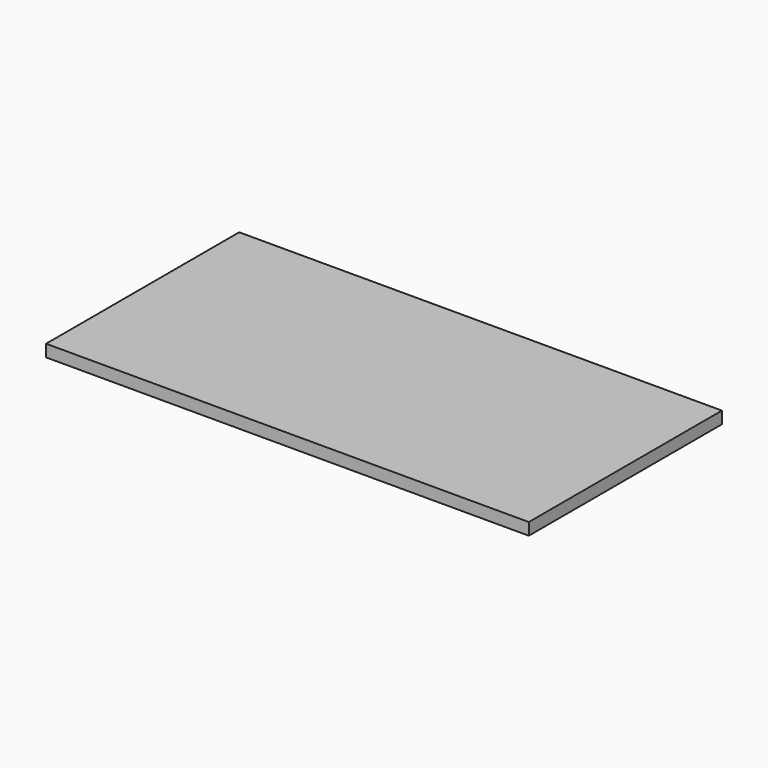
from build123d import *

# Parameters (mm, degrees)
F0_W     = 400
F0_H     = 200
F1_DEPTH = 10


with BuildPart() as f1:
    # F0 (on Top) → F1 (new body)
    with BuildSketch(Plane.XY):
        with Locations((0, 1338.235289)):
            Rectangle(F0_W, F0_H)
    extrude(amount=F1_DEPTH)


with BuildPart() as f1_1:
    # F2: moved
    add(f1.part.moved(Location((0, -1335.27982, 0))))


solid = f1_1.part
